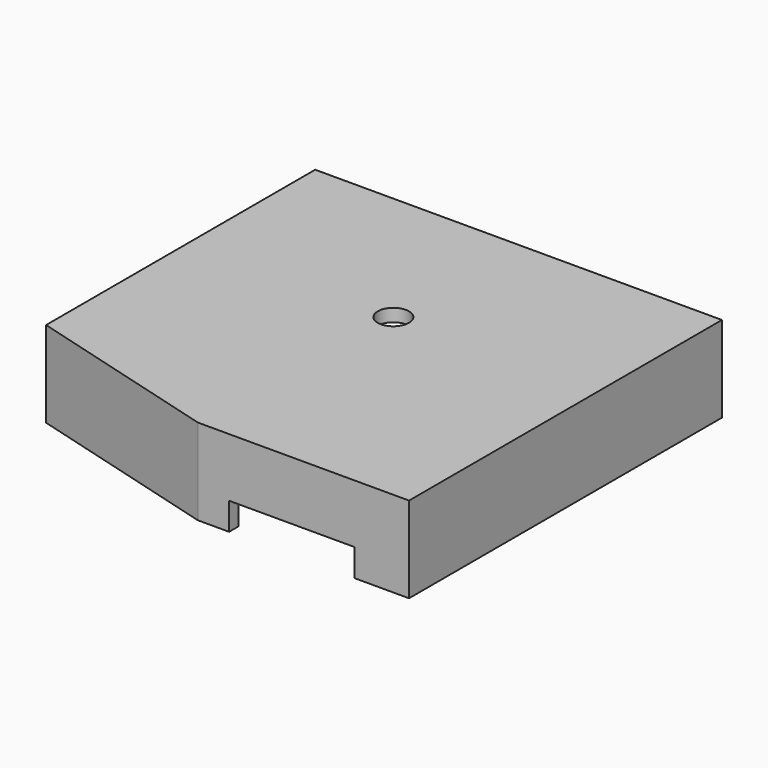
from build123d import *

# Parameters (mm, degrees)
SKETCH009_W      = 32
SKETCH009_H      = 32
EXTRUDE009_DEPTH = 3
SKETCH005_R      = 2.1
EXTRUDE007_DEPTH = 4
SKETCH008_R      = 4
EXTRUDE008_DEPTH = 5
CYLINDER_R       = 7
CYLINDER_DEPTH   = 1.5
EXTRUDE006_DEPTH = 2
SKETCH012_R      = 0.95
EXTRUDE011_DEPTH = 7
SKETCH013_R      = 2.1
SKETCH013_R_2    = 1.25
EXTRUDE012_DEPTH = 27.5
EXTRUDE005_DEPTH = 20


with BuildPart() as cone004:
    # Cone004 → Cone004 (revolve)
    with BuildSketch(Plane(origin=(-13, -9, -19.9), x_dir=(-1, 0, 0), z_dir=(0, 1, 0))):
        Polygon((0, 0), (2.1, 0), (6, 20), (0, 20), align=None)
    revolve(axis=Axis((-13, -9, -19.9), (0, 0, 1)))


with BuildPart() as cone005:
    # Cone005 → Cone005 (revolve)
    with BuildSketch(Plane(origin=(-13, -58, -19.8), x_dir=(-1, 0, 0), z_dir=(0, 1, 0))):
        Polygon((0, 0), (2.1, 0), (6, 20), (0, 20), align=None)
    revolve(axis=Axis((-13, -58, -19.8), (0, 0, 1)))


with BuildPart() as cone006:
    # Cone006 → Cone006 (revolve)
    with BuildSketch(Plane(origin=(-71, -9, -19.9), x_dir=(1, 0, 0), z_dir=(0, -1, 0))):
        Polygon((0, 0), (2.1, 0), (6, 20), (0, 20), align=None)
    revolve(axis=Axis((-71, -9, -19.9), (0, 0, 1)))


with BuildPart() as cone007:
    # Cone007 → Cone007 (revolve)
    with BuildSketch(Plane(origin=(-71, -58, -19.7), x_dir=(1, 0, 0), z_dir=(0, -1, 0))):
        Polygon((0, 0), (2.1, 0), (6, 20), (0, 20), align=None)
    revolve(axis=Axis((-71, -58, -19.7), (0, 0, 1)))


with BuildPart() as extrude009:
    # Sketch009 (on Face3 of Fusion001) → Extrude009 (new body)
    with BuildSketch(Plane.XZ.offset(100)):
        with Locations((-30, -29)):
            Rectangle(SKETCH009_W, SKETCH009_H)
    extrude(amount=-EXTRUDE009_DEPTH)


with BuildPart() as extrude007:
    # Sketch005 → Extrude007 (new body)
    with BuildSketch(Plane.XY):
        with Locations((-62.5, -27.5)):
            Circle(SKETCH005_R)
        with Locations((-41.5, -27.5)):
            Circle(SKETCH005_R)
        with Locations((-41.5, -40)):
            Circle(SKETCH005_R)
        with Locations((-62.5, -40)):
            Circle(SKETCH005_R)
    extrude(amount=-EXTRUDE007_DEPTH)


with BuildPart() as extrude008:
    # Sketch008 → Extrude008 (new body, symmetric)
    with BuildSketch(Plane.XY):
        with Locations((-52, -40)):
            Circle(SKETCH008_R)
    extrude(amount=EXTRUDE008_DEPTH, both=True)


with BuildPart() as cylinder:
    # Cylinder → Cylinder (new body)
    with BuildSketch(Plane(origin=(-52, -40.15, 0.25), x_dir=(1, 0, 0), z_dir=(0, 0, -1))):
        Circle(CYLINDER_R)
    extrude(amount=CYLINDER_DEPTH)


with BuildPart() as cut002:
    # Sketch007 → Extrude006 (new body)
    with BuildSketch(Plane.XY):
        Polygon((0, 0), (0, -100), (-54, -100), (-104, -86), (-104, 0), align=None)
    extrude(amount=EXTRUDE006_DEPTH)

    # Fusion005: union Cylinder
    add(cylinder.part)

    # Cut002: cut Extrude008
    add(extrude008.part, mode=Mode.SUBTRACT)


with BuildPart() as extrude011:
    # Sketch012 → Extrude011 (new body)
    with BuildSketch(Plane.XY):
        with Locations((-62.5, -27.5)):
            Circle(SKETCH012_R)
        with Locations((-41.5, -27.5)):
            Circle(SKETCH012_R)
        with Locations((-41.5, -40)):
            Circle(SKETCH012_R)
        with Locations((-62.5, -40)):
            Circle(SKETCH012_R)
    extrude(amount=-EXTRUDE011_DEPTH)


with BuildPart() as extrude012:
    # Sketch013 → Extrude012 (new body)
    with BuildSketch(Plane.XY):
        with Locations((-71, -9)):
            Circle(SKETCH013_R)
        with Locations((-71, -9)):
            Circle(SKETCH013_R_2, mode=Mode.SUBTRACT)
        with Locations((-13, -9)):
            Circle(SKETCH013_R)
        with Locations((-13, -9)):
            Circle(SKETCH013_R_2, mode=Mode.SUBTRACT)
        with Locations((-13, -58)):
            Circle(SKETCH013_R)
        with Locations((-13, -58)):
            Circle(SKETCH013_R_2, mode=Mode.SUBTRACT)
        with Locations((-71, -58)):
            Circle(SKETCH013_R)
        with Locations((-71, -58)):
            Circle(SKETCH013_R_2, mode=Mode.SUBTRACT)
    extrude(amount=-EXTRUDE012_DEPTH)


with BuildPart() as fusion004:
    # Sketch006 → Extrude005 (new body)
    with BuildSketch(Plane.XY):
        Polygon((0, 0), (0, -100), (-54, -100), (-104, -86), (-104, 0), align=None)
        Polygon((-3, -3), (-3, -97), (-54, -97), (-101, -83.84), (-101, -3), align=None, mode=Mode.SUBTRACT)
    extrude(amount=-EXTRUDE005_DEPTH)

    # Fusion001: union Extrude007, Cut002, Extrude011, Extrude012
    add(extrude007.part)
    add(cut002.part)
    add(extrude011.part)
    add(extrude012.part)

    # Cut003: cut Extrude009
    add(extrude009.part, mode=Mode.SUBTRACT)

    # Fusion004: union Cone004, Cone005, Cone006, Cone007
    add(cone004.part)
    add(cone005.part)
    add(cone006.part)
    add(cone007.part)


solid = fusion004.part
